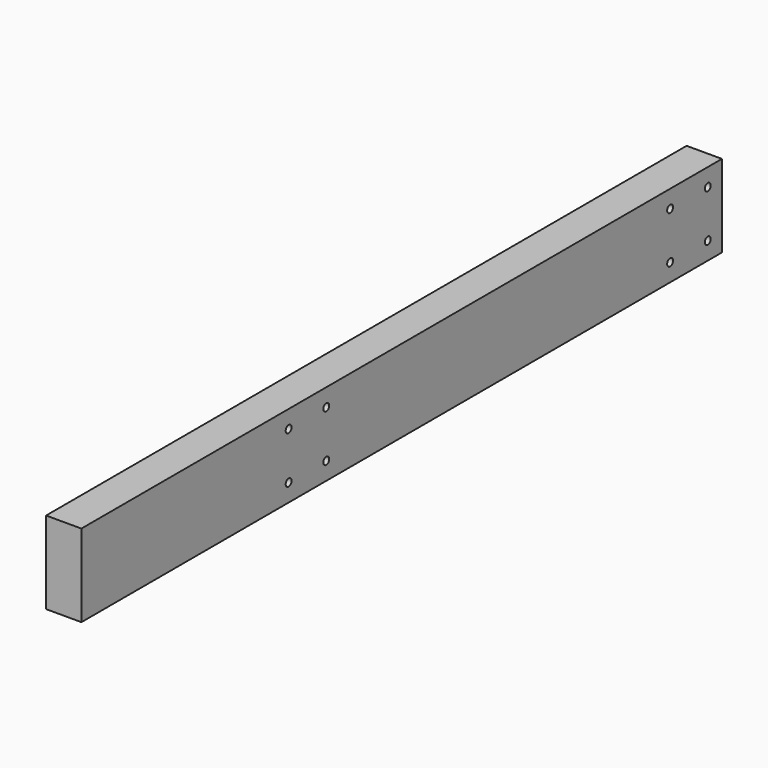
from build123d import *

# Parameters (mm, degrees)
F0_W     = 38.1
F0_H     = 88.9
F1_DEPTH = 863.6
F2_R     = 3.96875
F3_DEPTH = 38.101


with BuildPart() as f1:
    # F0 (on Front) → F1 (new body)
    with BuildSketch(Plane.XZ):
        Rectangle(F0_W, F0_H)
    extrude(amount=F1_DEPTH)

    # F2 (on face) → F3 (cut, through all)
    with BuildSketch(Plane.YZ.offset(19.05)):
        with Locations((-533.4, 25.4)):
            Circle(F2_R)
        with Locations((-533.4, -25.4)):
            Circle(F2_R)
        with Locations((-584.2, -25.4)):
            Circle(F2_R)
        with Locations((-584.2, 25.4)):
            Circle(F2_R)
        with Locations((-69.85, 25.4)):
            Circle(F2_R)
        with Locations((-69.85, -25.4)):
            Circle(F2_R)
        with Locations((-19.05, -25.4)):
            Circle(F2_R)
        with Locations((-19.05, 25.4)):
            Circle(F2_R)
    extrude(amount=-F3_DEPTH, mode=Mode.SUBTRACT)


solid = f1.part
